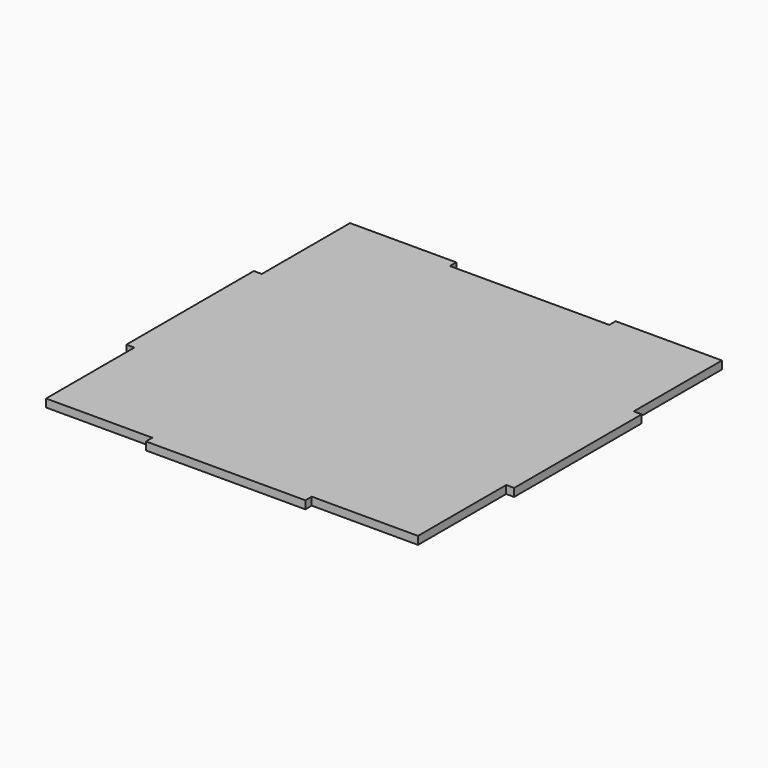
from build123d import *

# Parameters (mm, degrees)
F1_DEPTH = 3


with BuildPart() as f1:
    # F0 (on Top) → F1 (new body)
    with BuildSketch(Plane.XY):
        Polygon((30, -71.5), (70, -71.5), (70, -30), (73, -30), (73, 30), (70, 30), (70, 71.5), (30, 71.5), (30, 68.5), (-30, 68.5), (-30, 71.5), (-70, 71.5), (-70, 30), (-73, 30), (-73, -30), (-70, -30), (-70, -71.5), (-30, -71.5), (-30, -74.5), (30, -74.5), align=None)
    extrude(amount=F1_DEPTH)


solid = f1.part
